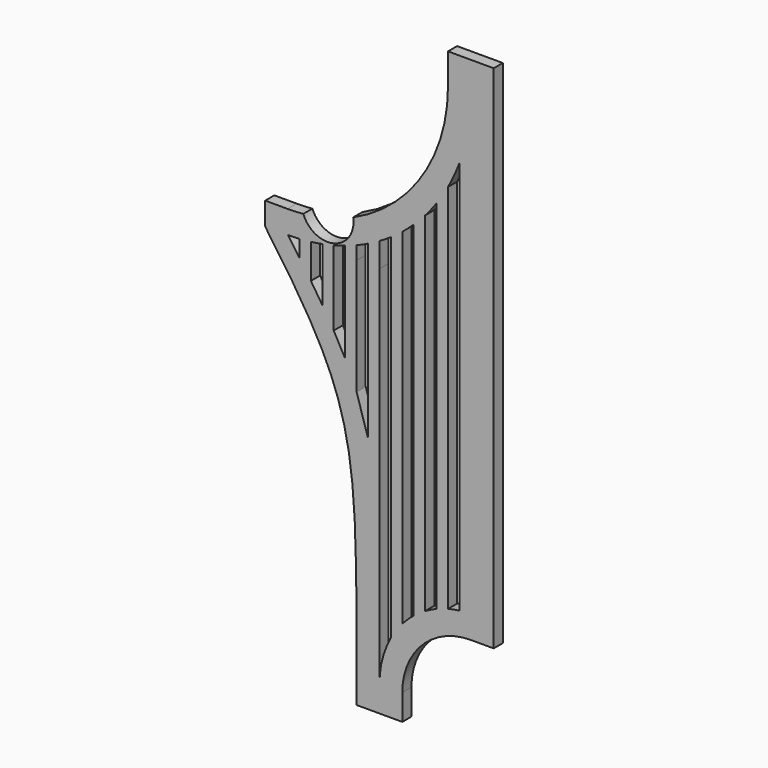
from build123d import *

# Parameters (mm, degrees)
F2_DEPTH = 3.175
F3_DEPTH = 3.175
F4_R     = 7.203715
F5_DEPTH = 25.4


with BuildPart() as f2:
    # F1 (on Front) → F2 (new body)
    with BuildSketch(Plane.XZ):
        with BuildLine():
            Line((-5.268215, -88.649482), (-5.268215, -81.455395))
            ThreePointArc((-5.268215, -81.455395), (0.311401, -67.985011), (13.781785, -62.405395))
            Line((13.781785, -62.405395), (20.131785, -62.405395))
            Line((20.131785, -62.405395), (20.131785, 79.52777))
            Line((20.131785, 79.52777), (7.431785, 79.52777))
            Line((7.431785, 79.52777), (7.431785, 70.944605))
            ThreePointArc((7.431785, 70.944605), (-5.63649, 39.464613), (-37.157186, 26.494822))
            Line((-37.157186, 26.494822), (-43.368766, 26.494822))
            Line((-43.368766, 26.494822), (-43.368215, 20.144822))
            add(Edge.make_bspline(
                [(-43.368215, 20.144822), (-17.968215, -15.569895), (-17.968215, -23.519904), (-17.968215, -81.455395)],
                knots=[0, 0, 0, 0, 104.727094, 104.727094, 104.727094, 104.727094], degree=3))
            Line((-17.968215, -81.455395), (-17.968215, -88.649482))
            Line((-17.968215, -88.649482), (-11.618215, -88.649482))
            Line((-11.618215, -88.649482), (-5.268215, -88.649482))
        make_face()
    extrude(amount=F2_DEPTH)

    # F0 (on Front) → F3 (cut)
    with BuildSketch(Plane.XZ):
        with BuildLine():
            Line((10.60685, -56.254837), (10.60685, 20.144395))
            Line((10.60685, 20.144395), (10.60685, 53.26673))
            ThreePointArc((10.60685, 53.26673), (9.14903, 49.749299), (7.43185, 46.350937))
            Line((7.43185, 46.350937), (7.43185, 20.144409))
            Line((7.43185, 20.144409), (7.43185, -56.862174))
            ThreePointArc((7.43185, -56.862174), (9.009679, -56.507945), (10.60685, -56.254837))
        make_face()
        with BuildLine():
            Line((4.25685, -57.909188), (4.25685, 20.144423))
            Line((4.25685, 20.144423), (4.25685, 41.329953))
            ThreePointArc((4.25685, 41.329953), (2.719376, 39.296806), (1.08185, 37.34334))
            Line((1.08185, 37.34334), (1.08185, 20.144436))
            Line((1.08185, 20.144436), (1.08185, -59.458573))
            ThreePointArc((1.08185, -59.458573), (2.64238, -58.628612), (4.25685, -57.909188))
        make_face()
        with BuildLine():
            Line((-2.09315, -61.62775), (-2.09315, 20.14445))
            Line((-2.09315, 20.14445), (-2.09315, 34.054215))
            ThreePointArc((-2.09315, 34.054215), (-3.651984, 32.638521), (-5.26815, 31.288645))
            Line((-5.26815, 31.288645), (-5.26815, 20.144463))
            Line((-5.26815, 20.144463), (-5.26815, -64.655097))
            ThreePointArc((-5.26815, -64.655097), (-3.74613, -63.072749), (-2.09315, -61.62775))
        make_face()
        with BuildLine():
            Line((-8.44315, -69.158896), (-8.44315, 20.144477))
            Line((-8.44315, 20.144477), (-8.44315, 28.94308))
            ThreePointArc((-8.44315, 28.94308), (-10.012262, 27.91739), (-11.61815, 26.950291))
            Line((-11.61815, 26.950291), (-11.61815, 20.14449))
            Line((-11.61815, 20.14449), (-11.618149, -81.455618))
            ThreePointArc((-11.618149, -81.455618), (-10.811594, -75.105618), (-8.44315, -69.158896))
        make_face()
        with BuildLine():
            Line((-14.79315, -22.322719), (-14.79315, 20.144504))
            Line((-14.79315, 20.144504), (-14.79315, 25.264087))
            ThreePointArc((-14.79315, 25.264087), (-16.368567, 24.530647), (-17.96815, 23.851521))
            Line((-17.96815, 23.851521), (-17.96815, 20.144518))
            Line((-17.96815, 20.144518), (-17.968287, -12.036756))
            Line((-17.968287, -12.036756), (-14.79315, -22.322719))
        make_face()
        with BuildLine():
            Line((-21.14315, -4.943635), (-21.14315, 20.144531))
            Line((-21.14315, 20.144531), (-21.14315, 22.68856))
            ThreePointArc((-21.14315, 22.68856), (-22.723067, 22.19717), (-24.31815, 21.757493))
            Line((-24.31815, 21.757493), (-24.31815, 20.144545))
            Line((-24.31815, 20.144545), (-24.31815, 0.903125))
            Line((-24.31815, 0.903125), (-21.14315, -4.943635))
        make_face()
        with BuildLine():
            Line((-27.49315, 6.121868), (-27.49315, 20.144558))
            Line((-27.49315, 20.144558), (-27.49315, 21.04534))
            ThreePointArc((-27.49315, 21.04534), (-29.076674, 20.76896), (-30.66815, 20.542819))
            Line((-30.66815, 20.542819), (-30.66815, 20.144572))
            Line((-30.66815, 20.144572), (-30.66815, 10.984366))
            Line((-30.66815, 10.984366), (-27.49315, 6.121868))
        make_face()
        with BuildLine():
            Line((-33.84315, 15.63159), (-33.84315, 20.144585))
            add(Edge.make_bspline(
                [(-33.84315, 20.243698), (-33.84315, 20.21066), (-33.84315, 20.177623), (-33.84315, 20.144585)],
                knots=[0, 0, 0, 0, 0.099112, 0.099112, 0.099112, 0.099112], degree=3))
            ThreePointArc((-33.84315, 20.243698), (-35.429797, 20.169219), (-37.017997, 20.144382))
            add(Edge.make_bspline(
                [(-37.017997, 20.144382), (-35.959714, 18.640118), (-34.901432, 17.135854), (-33.84315, 15.63159)],
                knots=[0.000266, 0.000266, 0.000266, 0.000266, 5.51796, 5.51796, 5.51796, 5.51796], degree=3))
        make_face()
    extrude(amount=F3_DEPTH, mode=Mode.SUBTRACT)

    # F4 (on Front) → F5 (cut)
    with BuildSketch(Plane.XZ):
        with Locations((-26.025116, 29.219549)):
            Circle(F4_R)
    extrude(amount=F5_DEPTH, mode=Mode.SUBTRACT)


solid = f2.part
